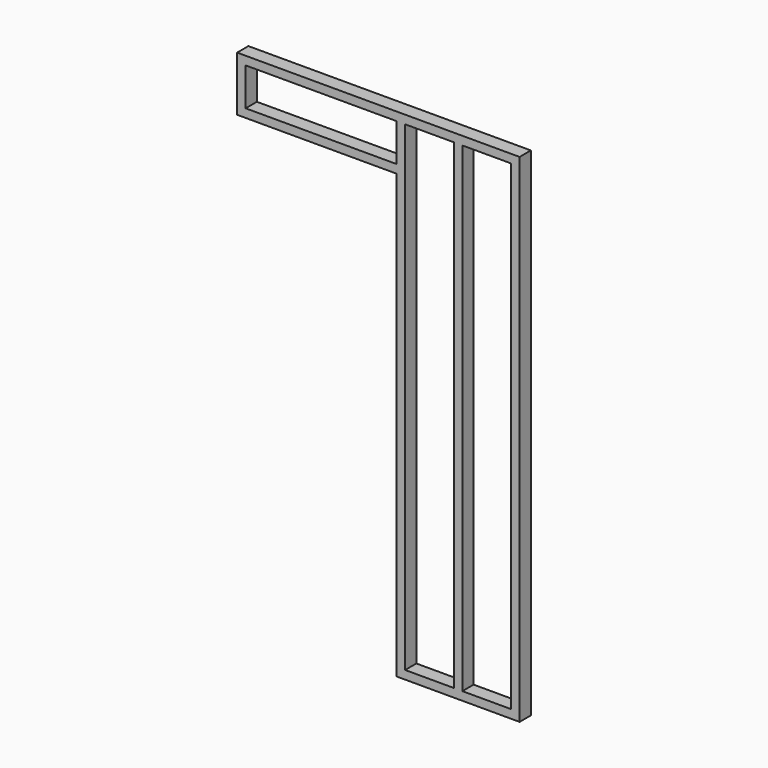
from build123d import *

# Parameters (mm, degrees)
F0_W      = 550
F0_H      = 63
F1_DEPTH  = 38
F2_W      = 38
F2_H      = 63
F3_DEPTH  = 2149
F4_W      = 38
F4_H      = 63
F5_DEPTH  = 2149
F6_W      = 38
F6_H      = 63
F7_DEPTH  = 2149
F8_W      = 1263.5
F8_H      = 63
F9_DEPTH  = 38
F10_W     = 63
F10_H     = 38
F11_DEPTH = 713.5
F12_W     = 38
F12_H     = 63
F13_DEPTH = 169


with BuildPart() as f1:
    # F0 (on Top) → F1 (new body)
    with BuildSketch(Plane.XY):
        with Locations((-275, 31.5)):
            Rectangle(F0_W, F0_H)
    extrude(amount=F1_DEPTH)

    # F2 (on face) → F3 (join)
    with BuildSketch(Plane.XY.offset(38)):
        with Locations((-531, 31.5)):
            Rectangle(F2_W, F2_H)
    extrude(amount=F3_DEPTH)

    # F4 (on face) → F5 (join)
    with BuildSketch(Plane.XY.offset(38)):
        with Locations((-19, 31.5)):
            Rectangle(F4_W, F4_H)
    extrude(amount=F5_DEPTH)

    # F6 (on face) → F7 (join)
    with BuildSketch(Plane.XY.offset(38)):
        with Locations((-275, 31.5)):
            Rectangle(F6_W, F6_H)
    extrude(amount=F7_DEPTH)

    # F8 (on face) → F9 (join)
    with BuildSketch(Plane.XY.offset(2187)):
        with Locations((-631.75, 31.5)):
            Rectangle(F8_W, F8_H)
    extrude(amount=F9_DEPTH)

    # F10 (on face) → F11 (join)
    with BuildSketch(Plane(origin=(-550, 0, 0), x_dir=(0, -1, 0), z_dir=(-1, 0, 0))):
        with Locations((-31.5, 1999)):
            Rectangle(F10_W, F10_H)
    extrude(amount=F11_DEPTH)

    # F12 (on face) → F13 (join)
    with BuildSketch(Plane.XY.offset(2018)):
        with Locations((-1244.5, 31.5)):
            Rectangle(F12_W, F12_H)
    extrude(amount=F13_DEPTH)


solid = f1.part
